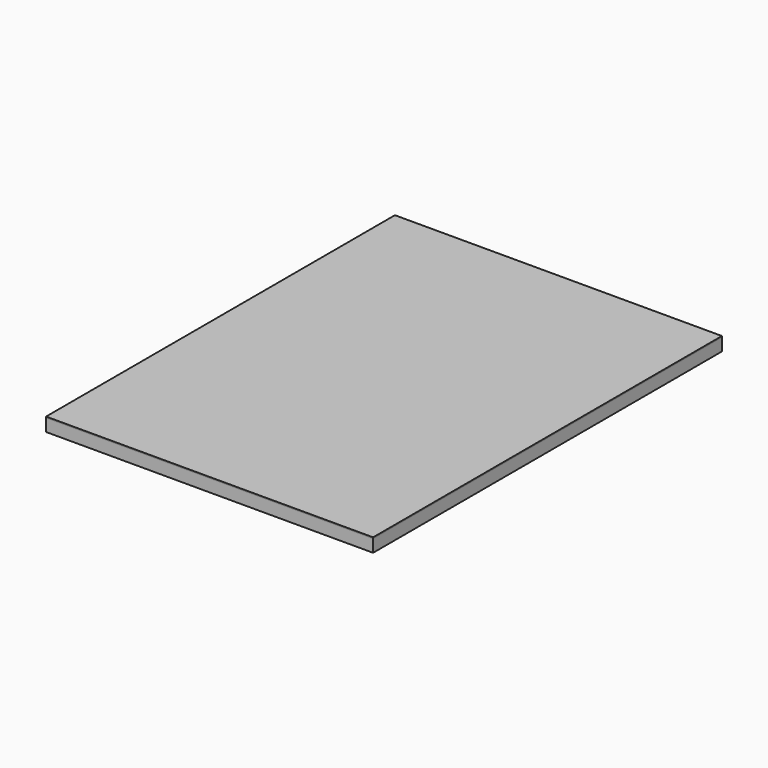
from build123d import *

# Parameters (mm, degrees)
F0_W     = 3581.4
F0_H     = 38.1
F1_DEPTH = 139.7
F2_W     = 3657.6
F2_H     = 4876.8
F3_DEPTH = 12.7


with BuildPart() as f1:
    # F0 (on Top) → F1 (new body)
    with BuildSketch(Plane.XY):
        with Locations((0, 2419.35)):
            Rectangle(F0_W, F0_H)
        Polygon((-1790.7, 2400.3), (-1790.7, 2438.4), (-1828.8, 2438.4), (-1828.8, -2438.4), (-1790.7, -2438.4), (-1790.7, -2400.3), (-1790.7, -1866.9), (-1790.7, -1828.8), (-1790.7, -1257.3), (-1790.7, -1219.2), (-1790.7, -647.7), (-1790.7, -609.6), (-1790.7, -38.1), (-1790.7, 0), (-1790.7, 571.5), (-1790.7, 609.6), (-1790.7, 1181.1), (-1790.7, 1219.2), (-1790.7, 1790.7), (-1790.7, 1828.8), align=None)
        Polygon((1828.8, 2438.4), (1790.7, 2438.4), (1790.7, 2400.3), (1790.7, 1828.8), (1790.7, 1790.7), (1790.7, 1219.2), (1790.7, 1181.1), (1790.7, 609.6), (1790.7, 571.5), (1790.7, 0), (1790.7, -38.1), (1790.7, -609.6), (1790.7, -647.7), (1790.7, -1219.2), (1790.7, -1257.3), (1790.7, -1828.8), (1790.7, -1866.9), (1790.7, -2400.3), (1790.7, -2438.4), (1828.8, -2438.4), align=None)
        with Locations((0, -2419.35)):
            Rectangle(F0_W, F0_H)
        with Locations((0, -1847.85)):
            Rectangle(F0_W, F0_H)
        with Locations((0, -1238.25)):
            Rectangle(F0_W, F0_H)
        with Locations((0, -628.65)):
            Rectangle(F0_W, F0_H)
        with Locations((0, -19.05)):
            Rectangle(F0_W, F0_H)
        with Locations((0, 590.55)):
            Rectangle(F0_W, F0_H)
        with Locations((0, 1200.15)):
            Rectangle(F0_W, F0_H)
        with Locations((0, 1809.75)):
            Rectangle(F0_W, F0_H)
    extrude(amount=-F1_DEPTH)


with BuildPart() as f3:
    # F2 (on Top) → F3 (new body)
    with BuildSketch(Plane.XY):
        Rectangle(F2_W, F2_H)
    extrude(amount=F3_DEPTH)


solid = Compound([f1.part, f3.part])
